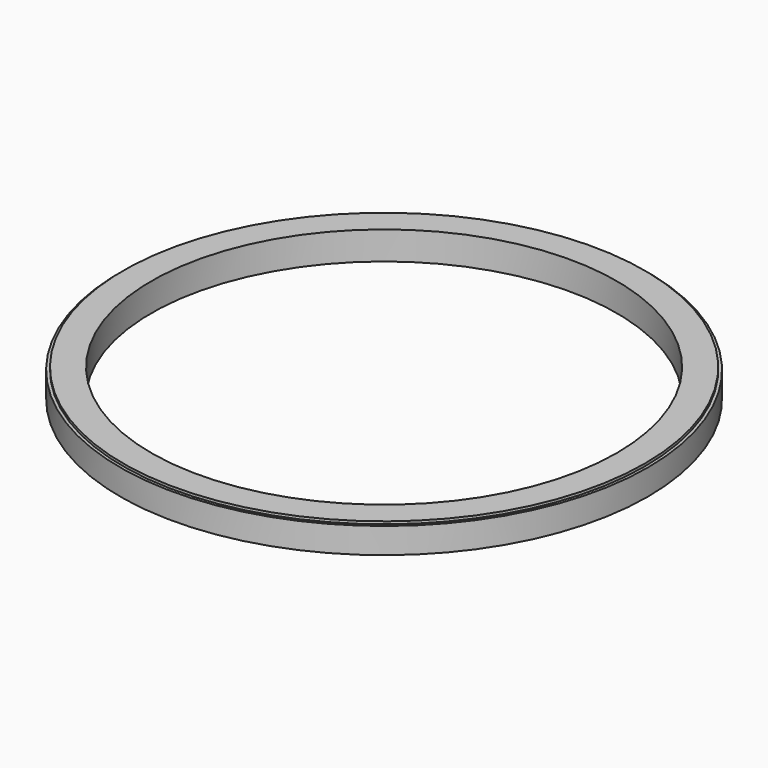
from build123d import *

# Parameters (mm, degrees)
F0_R     = 20.566734
F0_R_2   = 18.136205
F1_DEPTH = 2
F2_R     = 20.331725
F2_R_2   = 18.136205
F3_DEPTH = 0.2


with BuildPart() as f1:
    # F0 (on Top) → F1 (new body)
    with BuildSketch(Plane.XY):
        with Locations((0, -0.952214)):
            Circle(F0_R)
        with Locations((0, -0.952214)):
            Circle(F0_R_2, mode=Mode.SUBTRACT)
    extrude(amount=-F1_DEPTH)

    # F2 (on face) → F3 (join)
    with BuildSketch(Plane.XY):
        with Locations((0, -0.952214)):
            Circle(F2_R)
        with Locations((0, -0.952214)):
            Circle(F2_R_2, mode=Mode.SUBTRACT)
    extrude(amount=F3_DEPTH)


solid = f1.part
